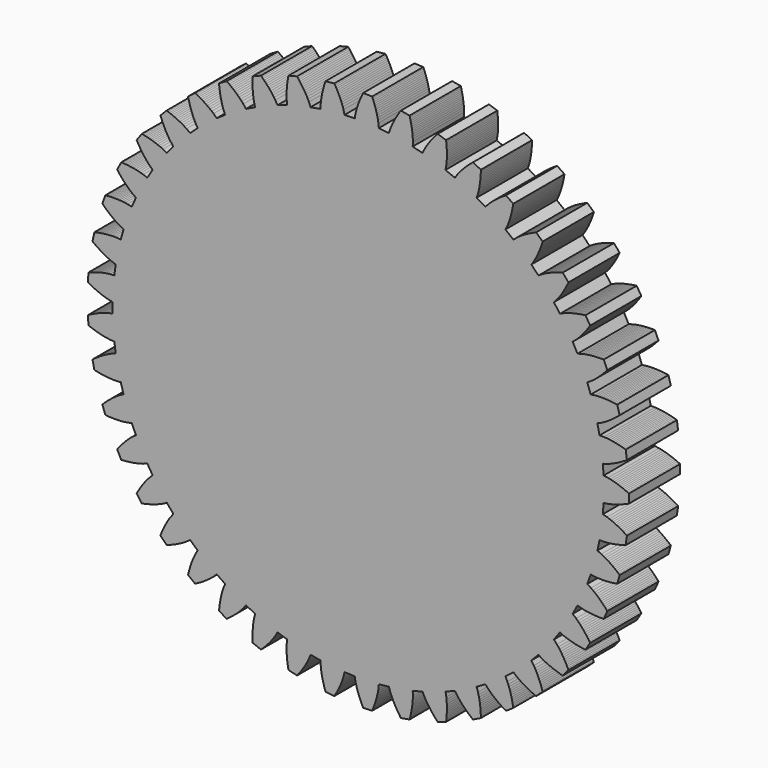
from build123d import *

# Parameters (mm, degrees)
F1_DEPTH = 5


with BuildPart() as f1:
    # F0 (on Front) → F1 (new body)
    with BuildSketch(Plane.XZ):
        Polygon((19.097055, -1.737715), (19.152914, -0.938899), (19.1721, -0.939839), (19.494402, -0.894952), (19.673585, -0.858515), (19.828612, -0.821504), (19.970844, -0.783447), (20.104697, -0.74426), (20.232446, -0.703953), (20.355446, -0.66256), (20.474583, -0.620121), (20.590474, -0.57668), (20.703572, -0.532277), (20.814218, -0.486949), (20.922679, -0.440731), (21.029168, -0.393658), (21.133859, -0.345758), (21.133859, 0.345758), (21.029168, 0.393658), (20.922679, 0.440731), (20.814218, 0.486949), (20.703572, 0.532277), (20.590474, 0.57668), (20.474583, 0.620121), (20.355446, 0.66256), (20.232446, 0.703953), (20.104697, 0.74426), (19.970844, 0.783447), (19.828612, 0.821504), (19.673585, 0.858515), (19.494402, 0.894952), (19.1721, 0.939839), (19.152914, 0.938899), (19.097055, 1.737715), (19.116185, 1.739455), (19.429104, 1.828761), (19.601472, 1.88978), (19.749839, 1.948006), (19.88539, 2.005488), (20.012488, 2.062922), (20.133384, 2.120616), (20.249426, 2.178725), (20.361496, 2.237331), (20.470214, 2.296479), (20.576031, 2.35619), (20.679292, 2.416476), (20.780266, 2.477338), (20.879167, 2.538774), (20.976173, 2.600778), (20.879933, 3.285564), (20.769594, 3.318428), (20.65759, 3.350223), (20.543752, 3.380895), (20.427874, 3.410383), (20.309698, 3.438614), (20.188888, 3.465504), (20.065005, 3.490949), (19.937441, 3.514821), (19.805326, 3.536957), (19.667321, 3.557133), (19.521177, 3.575025), (19.362508, 3.590101), (19.179998, 3.601245), (18.854585, 3.600839), (18.835717, 3.597238), (18.669228, 4.380507), (18.687929, 4.384892), (18.985374, 4.516878), (19.147572, 4.601293), (19.286392, 4.679601), (19.412624, 4.755389), (19.530491, 4.829952), (19.642181, 4.90391), (19.749006, 4.977604), (19.85183, 5.051237), (19.951258, 5.124939), (20.047735, 5.198797), (20.141601, 5.272867), (20.233121, 5.347189), (20.32251, 5.421792), (20.409943, 5.496693), (20.219335, 6.161421), (20.105497, 6.178608), (19.990157, 6.194506), (19.873159, 6.209037), (19.754305, 6.222111), (19.633349, 6.23362), (19.509973, 6.243435), (19.383754, 6.251391), (19.254109, 6.257277), (19.120199, 6.26081), (18.980729, 6.261584), (18.833517, 6.258963), (18.674294, 6.251809), (18.492009, 6.237444), (18.16982, 6.191754), (18.151636, 6.185562), (17.877758, 6.938037), (17.895667, 6.944982), (18.171848, 7.11708), (18.32072, 7.223247), (18.44729, 7.320113), (18.561746, 7.412731), (18.668089, 7.502973), (18.768399, 7.591755), (18.863929, 7.679599), (18.955504, 7.766826), (19.043707, 7.853648), (19.128966, 7.940214), (19.21161, 8.026627), (19.291896, 8.112964), (19.370032, 8.199281), (19.44619, 8.285621), (19.164924, 8.917352), (19.049802, 8.918529), (18.933372, 8.91822), (18.81549, 8.916326), (18.695973, 8.912732), (18.574593, 8.907295), (18.451052, 8.899844), (18.324954, 8.890156), (18.195752, 8.877942), (18.062653, 8.862804), (17.924433, 8.84416), (17.779018, 8.821076), (17.622341, 8.791832), (17.443829, 8.752238), (17.131134, 8.662152), (17.113989, 8.65349), (16.738051, 9.360525), (16.75482, 9.369895), (17.004361, 9.578756), (17.137009, 9.704608), (17.248866, 9.818147), (17.349318, 9.925793), (17.442067, 10.029957), (17.529045, 10.131836), (17.611419, 10.232119), (17.689964, 10.331242), (17.765225, 10.429495), (17.837607, 10.527084), (17.90742, 10.624158), (17.974909, 10.720828), (18.040272, 10.817179), (18.103672, 10.913278), (17.737224, 11.499718), (17.623058, 11.484861), (17.507805, 11.468351), (17.391333, 11.45007), (17.27348, 11.429877), (17.154037, 11.4076), (17.032735, 11.383028), (16.909213, 11.355885), (16.782968, 11.325808), (16.653271, 11.292294), (16.518991, 11.254594), (16.378204, 11.211498), (16.227121, 11.160733), (16.055857, 11.09668), (15.758743, 10.963952), (15.74297, 10.952988), (15.272291, 11.600822), (15.287593, 11.612435), (15.505638, 11.853992), (15.619479, 11.997081), (15.714446, 12.125082), (15.798939, 12.245661), (15.876288, 12.361719), (15.948241, 12.474711), (16.015857, 12.585483), (16.079842, 12.694572), (16.140696, 12.802344), (16.198792, 12.909057), (16.254416, 13.014902), (16.307794, 13.120024), (16.359111, 13.224534), (16.40852, 13.328522), (15.964022, 13.858254), (15.853034, 13.827653), (15.741201, 13.795264), (15.628407, 13.76095), (15.514511, 13.724552), (15.399331, 13.685869), (15.282629, 13.644654), (15.164086, 13.600584), (15.043256, 13.55323), (14.919486, 13.501992), (14.791759, 13.445971), (14.65834, 13.3837), (14.515793, 13.312403), (14.35511, 13.225138), (14.079359, 13.052351), (14.065266, 13.039299), (13.509007, 13.615323), (13.522543, 13.628952), (13.704848, 13.898504), (13.797667, 14.056044), (13.873896, 14.196016), (13.940785, 14.327181), (14.001229, 14.452874), (14.056756, 14.574781), (14.108298, 14.693885), (14.156478, 14.810818), (14.201741, 14.92601), (14.24442, 15.039769), (14.284771, 15.152326), (14.323, 15.263853), (14.359273, 15.374489), (14.393728, 15.48434), (13.879831, 15.947055), (13.774183, 15.901306), (13.667945, 15.853667), (13.561025, 15.80399), (13.453303, 15.752094), (13.344627, 15.697758), (13.234798, 15.640702), (13.123542, 15.580563), (13.010478, 15.516854), (12.895043, 15.448889), (12.776356, 15.375637), (12.652902, 15.295404), (12.521665, 15.204961), (12.37469, 15.096184), (12.12567, 14.886701), (12.113531, 14.871815), (11.482518, 15.364816), (11.494026, 15.380196), (11.637042, 15.672497), (11.707033, 15.841422), (11.763039, 15.990641), (11.811023, 16.129838), (11.853386, 16.262721), (11.891406, 16.391169), (11.92587, 16.516287), (11.957307, 16.638787), (11.986098, 16.759158), (12.012529, 16.87775), (12.036823, 16.994827), (12.059158, 17.110589), (12.079681, 17.225196), (12.098513, 17.338774), (11.525219, 17.725465), (11.426966, 17.665458), (11.328393, 17.603497), (11.229426, 17.539423), (11.129975, 17.47304), (11.029919, 17.404108), (10.929099, 17.332322), (10.827296, 17.257285), (10.724198, 17.17846), (10.619346, 17.095091), (10.512009, 17.006034), (10.400923, 16.9094), (10.28355, 16.801573), (10.153145, 16.673399), (9.935702, 16.431299), (9.925753, 16.414867), (9.232268, 16.815251), (9.241524, 16.832083), (9.342468, 17.141443), (9.388267, 17.318465), (9.422961, 17.474026), (9.451106, 17.618547), (9.474563, 17.756032), (9.494337, 17.888521), (9.511052, 18.017218), (9.525135, 18.142902), (9.536893, 18.266107), (9.546562, 18.387224), (9.554326, 18.506543), (9.560332, 18.624287), (9.564705, 18.740635), (9.567546, 18.855728), (8.946015, 19.158869), (8.85707, 19.085771), (8.768079, 19.010695), (8.678993, 18.933471), (8.589748, 18.853894), (8.50026, 18.771707), (8.410412, 18.686588), (8.320042, 18.598113), (8.228919, 18.505707), (8.136689, 18.408556), (8.042791, 18.305428), (7.946235, 18.194274), (7.84501, 18.071161), (7.733713, 17.926085), (7.552081, 17.656079), (7.544515, 17.638423), (6.802057, 17.938396), (6.808879, 17.956352), (6.865786, 18.276751), (6.886504, 18.458423), (6.89921, 18.617299), (6.906967, 18.76433), (6.911062, 18.903742), (6.912204, 19.037694), (6.910846, 19.167465), (6.9073, 19.293885), (6.901797, 19.417528), (6.894515, 19.538812), (6.885598, 19.65805), (6.875159, 19.775484), (6.863296, 19.891308), (6.850092, 20.005677), (6.192421, 20.219367), (6.114514, 20.134602), (6.036838, 20.047871), (5.959366, 19.959), (5.882065, 19.867777), (5.804886, 19.773936), (5.727758, 19.677141), (5.650582, 19.57695), (5.573205, 19.472761), (5.495394, 19.36372), (5.416763, 19.248527), (5.336616, 19.125017), (5.253511, 18.989015), (5.163487, 18.829861), (5.0212, 18.537204), (5.016165, 18.518667), (4.239184, 18.71239), (4.243441, 18.731121), (4.255204, 19.056322), (4.250435, 19.23911), (4.240907, 19.398208), (4.228126, 19.544888), (4.212778, 19.683512), (4.195267, 19.81632), (4.175861, 19.944639), (4.154755, 20.069335), (4.132098, 20.191009), (4.108008, 20.310099), (4.082582, 20.426935), (4.055901, 20.541774), (4.028035, 20.65482), (3.999042, 20.766238), (3.318031, 20.886319), (3.25268, 20.791536), (3.18783, 20.694839), (3.123481, 20.596051), (3.059628, 20.494957), (2.99626, 20.391288), (2.933354, 20.284701), (2.870873, 20.174743), (2.808749, 20.0608), (2.746871, 19.941991), (2.685037, 19.816976), (2.622859, 19.683513), (2.55949, 19.537269), (2.492493, 19.367135), (2.39232, 19.057524), (2.389914, 19.038466), (1.593534, 19.122169), (1.595143, 19.14131), (1.561532, 19.464983), (1.531371, 19.645329), (1.499793, 19.801552), (1.466722, 19.945026), (1.432231, 20.080165), (1.396407, 20.209243), (1.359331, 20.333613), (1.321076, 20.454158), (1.281706, 20.571495), (1.241277, 20.686073), (1.199838, 20.798234), (1.157434, 20.908242), (1.114105, 21.016309), (1.069889, 21.122608), (0.378793, 21.146742), (0.327269, 21.043786), (0.276508, 20.939004), (0.226534, 20.832222), (0.177372, 20.723226), (0.129048, 20.611747), (0.081589, 20.497442), (0.035019, 20.379859), (-0.010642, 20.258379), (-0.055383, 20.132114), (-0.099217, 19.99971), (-0.142215, 19.858893), (-0.184614, 19.705252), (-0.227282, 19.52745), (-0.283389, 19.20691), (-0.28312, 19.187703), (-1.083399, 19.159757), (-1.08447, 19.178936), (-1.162801, 19.494781), (-1.217767, 19.669173), (-1.27078, 19.819482), (-1.323497, 19.956957), (-1.37646, 20.085981), (-1.429899, 20.208817), (-1.483923, 20.326816), (-1.538582, 20.440864), (-1.593899, 20.55158), (-1.649882, 20.659416), (-1.706527, 20.764718), (-1.763828, 20.867754), (-1.821775, 20.96874), (-1.880356, 21.06785), (-2.568084, 20.995567), (-2.604778, 20.886443), (-2.640462, 20.775616), (-2.675089, 20.662918), (-2.708603, 20.54814), (-2.740942, 20.431021), (-2.772031, 20.311224), (-2.801784, 20.188303), (-2.830093, 20.061651), (-2.856826, 19.930388), (-2.881806, 19.793172), (-2.904788, 19.647741), (-2.925392, 19.489695), (-2.942899, 19.307685), (-2.95385, 18.982456), (-2.95091, 18.963474), (-3.739512, 18.824422), (-3.743241, 18.843265), (-3.864767, 19.145135), (-3.943469, 19.310181), (-4.016885, 19.451648), (-4.088221, 19.580448), (-4.158626, 19.700846), (-4.228641, 19.815049), (-4.298561, 19.924381), (-4.368561, 20.029712), (-4.438748, 20.131652), (-4.509194, 20.230648), (-4.579943, 20.327041), (-4.651026, 20.4211), (-4.722464, 20.513038), (-4.794267, 20.603031), (-5.465243, 20.435738), (-5.486393, 20.322569), (-5.506306, 20.207855), (-5.524911, 20.091434), (-5.542125, 19.973109), (-5.557849, 19.852629), (-5.571963, 19.72967), (-5.584319, 19.603806), (-5.594727, 19.474446), (-5.602931, 19.34074), (-5.608571, 19.201383), (-5.611089, 19.054169), (-5.609497, 18.894793), (-5.601502, 18.712118), (-5.567084, 18.38853), (-5.561531, 18.370142), (-6.323105, 18.122691), (-6.329421, 18.140832), (-6.491776, 18.42285), (-6.592683, 18.575337), (-6.685072, 18.70521), (-6.77364, 18.822829), (-6.860115, 18.932256), (-6.945343, 19.035604), (-7.029799, 19.134141), (-7.113777, 19.228705), (-7.197468, 19.319884), (-7.281006, 19.408112), (-7.364482, 19.493721), (-7.447964, 19.576972), (-7.531501, 19.658073), (-7.615131, 19.737197), (-8.256294, 19.47815), (-8.261488, 19.363139), (-8.265242, 19.24677), (-8.267463, 19.128893), (-8.268042, 19.009324), (-8.266845, 18.887828), (-8.26371, 18.764102), (-8.258429, 18.637742), (-8.250731, 18.508193), (-8.240248, 18.374647), (-8.226438, 18.23586), (-8.208444, 18.089728), (-8.184686, 17.932126), (-8.151346, 17.752341), (-8.072228, 17.436692), (-8.064169, 17.419256), (-8.783894, 17.068222), (-8.792673, 17.085308), (-8.992697, 17.341986), (-9.113844, 17.478945), (-9.223409, 17.594697), (-9.327484, 17.698844), (-9.428347, 17.795172), (-9.527129, 17.885652), (-9.624476, 17.971476), (-9.720797, 18.053432), (-9.816365, 18.132077), (-9.911368, 18.20782), (-10.005946, 18.280978), (-10.100202, 18.3518), (-10.194214, 18.420486), (-10.288041, 18.487201), (-10.886912, 18.141443), (-10.876049, 18.026828), (-10.863571, 17.911069), (-10.849366, 17.79403), (-10.833298, 17.675544), (-10.815204, 17.555397), (-10.794879, 17.433311), (-10.772064, 17.308916), (-10.746412, 17.181699), (-10.717444, 17.050911), (-10.684454, 16.915397), (-10.646297, 16.773192), (-10.600836, 16.62043), (-10.542799, 16.447035), (-10.420521, 16.145469), (-10.410114, 16.129324), (-11.07398, 15.68154), (-11.085052, 15.697238), (-11.318852, 15.92358), (-11.457881, 16.042346), (-11.582489, 16.141722), (-11.700046, 16.230372), (-11.813334, 16.311724), (-11.923746, 16.387577), (-12.032091, 16.459017), (-12.138881, 16.526771), (-12.244463, 16.591349), (-12.349083, 16.653134), (-12.452923, 16.712417), (-12.556118, 16.769432), (-12.658774, 16.824365), (-12.760973, 16.877373), (-13.305896, 16.451633), (-13.279187, 16.339645), (-13.25072, 16.226749), (-13.220364, 16.112826), (-13.187963, 15.997729), (-13.153323, 15.88127), (-13.116206, 15.763201), (-13.0763, 15.643192), (-13.033192, 15.520783), (-12.986304, 15.3953), (-12.934775, 15.265696), (-12.877198, 15.130185), (-12.810919, 14.985236), (-12.729316, 14.821606), (-12.566258, 14.539993), (-12.553705, 14.525453), (-13.148791, 13.989635), (-13.161939, 14.003638), (-13.424965, 14.19524), (-13.57917, 14.2935), (-13.716396, 14.374567), (-13.845146, 14.445994), (-13.968654, 14.510788), (-14.088548, 14.570535), (-14.205781, 14.626202), (-14.320961, 14.678434), (-14.434503, 14.72769), (-14.546704, 14.774313), (-14.657784, 14.818568), (-14.76791, 14.860665), (-14.877212, 14.900777), (-14.985794, 14.939045), (-15.466162, 14.44161), (-15.424127, 14.33443), (-15.380225, 14.226594), (-15.33431, 14.118005), (-15.286205, 14.008537), (-15.235695, 13.898032), (-15.182506, 13.786278), (-15.126287, 13.672991), (-15.066563, 13.557772), (-15.002667, 13.440036), (-14.933602, 13.318865), (-14.857726, 13.192686), (-14.771919, 13.058372), (-14.668337, 12.907691), (-14.467673, 12.651512), (-14.453219, 12.63886), (-14.967942, 12.025437), (-14.982911, 12.037475), (-15.270043, 12.190605), (-15.436422, 12.266448), (-15.583596, 12.327628), (-15.721033, 12.380441), (-15.852356, 12.427415), (-15.979399, 12.469895), (-16.103239, 12.508705), (-16.224567, 12.544398), (-16.343859, 12.577373), (-16.461457, 12.607926), (-16.577615, 12.636291), (-16.692527, 12.662653), (-16.806348, 12.687162), (-16.9192, 12.709947), (-17.325663, 12.150498), (-17.269121, 12.050211), (-17.210638, 11.949535), (-17.150057, 11.848392), (-17.087186, 11.746685), (-17.021788, 11.644284), (-16.953564, 11.541021), (-16.882125, 11.43666), (-16.806946, 11.330875), (-16.727287, 11.223177), (-16.64203, 11.112797), (-16.549332, 10.998406), (-16.445667, 10.877341), (-16.322122, 10.742542), (-16.087758, 10.516784), (-16.071684, 10.506267), (-16.496026, 9.827178), (-16.512524, 9.837015), (-16.818174, 9.948694), (-16.993489, 10.000644), (-17.147745, 10.040746), (-17.291195, 10.073916), (-17.427778, 10.102158), (-17.559496, 10.126543), (-17.687532, 10.14774), (-17.812647, 10.1662), (-17.935367, 10.182251), (-18.056073, 10.196141), (-18.175048, 10.208064), (-18.292511, 10.218176), (-18.408635, 10.226607), (-18.523559, 10.233463), (-18.848206, 9.62289), (-18.778257, 9.531448), (-18.706333, 9.439891), (-18.632265, 9.348164), (-18.55585, 9.256197), (-18.476837, 9.163895), (-18.394906, 9.071131), (-18.309638, 8.977728), (-18.220469, 8.883435), (-18.126596, 8.787872), (-18.026807, 8.690432), (-17.919091, 8.590055), (-17.799586, 8.484596), (-17.658483, 8.368303), (-17.39498, 8.177358), (-17.377598, 8.169181), (-17.7033, 7.437644), (-17.721007, 7.445089), (-18.039224, 7.513143), (-18.220063, 7.540188), (-18.378399, 7.558431), (-18.52507, 7.571315), (-18.664254, 7.580273), (-18.798084, 7.586089), (-18.927824, 7.58926), (-19.05429, 7.590128), (-19.17805, 7.588944), (-19.299514, 7.5859), (-19.418991, 7.581149), (-19.536718, 7.574815), (-19.652885, 7.567002), (-19.767645, 7.557797), (-20.004158, 6.907984), (-19.922163, 6.827167), (-19.838196, 6.746511), (-19.752083, 6.665985), (-19.663613, 6.585547), (-19.572523, 6.50514), (-19.478478, 6.424681), (-19.381041, 6.344055), (-19.279617, 6.263089), (-19.173358, 6.181521), (-19.060979, 6.098917), (-18.940341, 6.014508), (-18.807322, 5.926707), (-18.651407, 5.831184), (-18.363894, 5.67877), (-18.345544, 5.673091), (-18.566266, 4.903344), (-18.584837, 4.908253), (-18.909429, 4.931357), (-19.092272, 4.932971), (-19.251605, 4.929001), (-19.398642, 4.921346), (-19.537718, 4.910846), (-19.671055, 4.89798), (-19.799974, 4.883065), (-19.92533, 4.866323), (-20.047721, 4.847927), (-20.167579, 4.828008), (-20.285232, 4.806675), (-20.400932, 4.784018), (-20.514881, 4.760113), (-20.627243, 4.735027), (-20.771018, 4.058622), (-20.678573, 3.990002), (-20.584198, 3.921817), (-20.487716, 3.85406), (-20.388912, 3.786718), (-20.287518, 3.71977), (-20.183191, 3.653183), (-20.075482, 3.586902), (-19.963776, 3.52084), (-19.847199, 3.454853), (-19.724417, 3.388693), (-19.593206, 3.321896), (-19.449262, 3.253462), (-19.28157, 3.180567), (-18.975644, 3.069651), (-18.956682, 3.066581), (-19.068127, 2.273607), (-19.0872, 2.275883), (-19.411849, 2.253588), (-19.593137, 2.229739), (-19.750368, 2.203633), (-19.894908, 2.17559), (-20.031169, 2.145836), (-20.161419, 2.114538), (-20.287006, 2.081826), (-20.408813, 2.047801), (-20.527452, 2.01255), (-20.643372, 1.976144), (-20.75691, 1.938644), (-20.868331, 1.900106), (-20.977845, 1.860575), (-21.085622, 1.820095), (-21.13386, 1.130263), (-21.032765, 1.075177), (-20.929819, 1.02079), (-20.824846, 0.96712), (-20.717631, 0.914184), (-20.607907, 0.861999), (-20.495328, 0.810579), (-20.379442, 0.759934), (-20.259629, 0.710061), (-20.135003, 0.660941), (-20.004209, 0.612513), (-19.864978, 0.564626), (-19.712911, 0.516891), (-19.536706, 0.468044), (-19.21832, 0.400784), (-19.199115, 0.400384), (-19.199115, -0.400384), (-19.21832, -0.400784), (-19.536706, -0.468044), (-19.712911, -0.516891), (-19.864978, -0.564626), (-20.004209, -0.612513), (-20.135003, -0.660941), (-20.259629, -0.710061), (-20.379442, -0.759934), (-20.495328, -0.810579), (-20.607907, -0.861999), (-20.717631, -0.914184), (-20.824846, -0.96712), (-20.929819, -1.02079), (-21.032765, -1.075177), (-21.13386, -1.130263), (-21.085622, -1.820095), (-20.977845, -1.860575), (-20.868331, -1.900106), (-20.75691, -1.938644), (-20.643372, -1.976144), (-20.527452, -2.01255), (-20.408813, -2.047801), (-20.287006, -2.081826), (-20.161419, -2.114538), (-20.031169, -2.145836), (-19.894908, -2.17559), (-19.750368, -2.203633), (-19.593137, -2.229739), (-19.411849, -2.253588), (-19.0872, -2.275883), (-19.068127, -2.273607), (-18.956682, -3.066581), (-18.975644, -3.069651), (-19.28157, -3.180567), (-19.449262, -3.253462), (-19.593206, -3.321896), (-19.724417, -3.388693), (-19.847199, -3.454853), (-19.963776, -3.52084), (-20.075482, -3.586902), (-20.183191, -3.653183), (-20.287518, -3.71977), (-20.388912, -3.786718), (-20.487716, -3.85406), (-20.584198, -3.921817), (-20.678573, -3.990002), (-20.771018, -4.058622), (-20.627243, -4.735027), (-20.514881, -4.760113), (-20.400932, -4.784018), (-20.285232, -4.806675), (-20.167579, -4.828008), (-20.047721, -4.847927), (-19.92533, -4.866323), (-19.799974, -4.883065), (-19.671055, -4.89798), (-19.537718, -4.910846), (-19.398642, -4.921346), (-19.251605, -4.929001), (-19.092272, -4.932971), (-18.909429, -4.931357), (-18.584837, -4.908253), (-18.566266, -4.903344), (-18.345544, -5.673091), (-18.363894, -5.67877), (-18.651407, -5.831184), (-18.807322, -5.926707), (-18.940341, -6.014508), (-19.060979, -6.098917), (-19.173358, -6.181521), (-19.279617, -6.263089), (-19.381041, -6.344055), (-19.478478, -6.424681), (-19.572523, -6.50514), (-19.663613, -6.585547), (-19.752083, -6.665985), (-19.838196, -6.746511), (-19.922163, -6.827167), (-20.004158, -6.907984), (-19.767645, -7.557797), (-19.652885, -7.567002), (-19.536718, -7.574815), (-19.418991, -7.581149), (-19.299514, -7.5859), (-19.17805, -7.588944), (-19.05429, -7.590128), (-18.927824, -7.58926), (-18.798084, -7.586089), (-18.664254, -7.580273), (-18.52507, -7.571315), (-18.378399, -7.558431), (-18.220063, -7.540188), (-18.039224, -7.513143), (-17.721007, -7.445089), (-17.7033, -7.437644), (-17.377598, -8.169181), (-17.39498, -8.177358), (-17.658483, -8.368303), (-17.799586, -8.484596), (-17.919091, -8.590055), (-18.026807, -8.690432), (-18.126596, -8.787872), (-18.220469, -8.883435), (-18.309638, -8.977728), (-18.394906, -9.071131), (-18.476837, -9.163895), (-18.55585, -9.256197), (-18.632265, -9.348164), (-18.706333, -9.439891), (-18.778257, -9.531448), (-18.848206, -9.62289), (-18.523559, -10.233463), (-18.408635, -10.226607), (-18.292511, -10.218176), (-18.175048, -10.208064), (-18.056073, -10.196141), (-17.935367, -10.182251), (-17.812647, -10.1662), (-17.687532, -10.14774), (-17.559496, -10.126543), (-17.427778, -10.102158), (-17.291195, -10.073916), (-17.147745, -10.040746), (-16.993489, -10.000644), (-16.818174, -9.948694), (-16.512524, -9.837015), (-16.496026, -9.827178), (-16.071684, -10.506267), (-16.087758, -10.516784), (-16.322122, -10.742542), (-16.445667, -10.877341), (-16.549332, -10.998406), (-16.64203, -11.112797), (-16.727287, -11.223177), (-16.806946, -11.330875), (-16.882125, -11.43666), (-16.953564, -11.541021), (-17.021788, -11.644284), (-17.087186, -11.746685), (-17.150057, -11.848392), (-17.210638, -11.949535), (-17.269121, -12.050211), (-17.325663, -12.150498), (-16.9192, -12.709947), (-16.806348, -12.687162), (-16.692527, -12.662653), (-16.577615, -12.636291), (-16.461457, -12.607926), (-16.343859, -12.577373), (-16.224567, -12.544398), (-16.103239, -12.508705), (-15.979399, -12.469895), (-15.852356, -12.427415), (-15.721033, -12.380441), (-15.583596, -12.327628), (-15.436422, -12.266448), (-15.270043, -12.190605), (-14.982911, -12.037475), (-14.967942, -12.025437), (-14.453219, -12.63886), (-14.467673, -12.651512), (-14.668337, -12.907691), (-14.771919, -13.058372), (-14.857726, -13.192686), (-14.933602, -13.318865), (-15.002667, -13.440036), (-15.066563, -13.557772), (-15.126287, -13.672991), (-15.182506, -13.786278), (-15.235695, -13.898032), (-15.286205, -14.008537), (-15.33431, -14.118005), (-15.380225, -14.226594), (-15.424127, -14.33443), (-15.466162, -14.44161), (-14.985794, -14.939045), (-14.877212, -14.900777), (-14.76791, -14.860665), (-14.657784, -14.818568), (-14.546704, -14.774313), (-14.434503, -14.72769), (-14.320961, -14.678434), (-14.205781, -14.626202), (-14.088548, -14.570535), (-13.968654, -14.510788), (-13.845146, -14.445994), (-13.716396, -14.374567), (-13.57917, -14.2935), (-13.424965, -14.19524), (-13.161939, -14.003638), (-13.148791, -13.989635), (-12.553705, -14.525453), (-12.566258, -14.539993), (-12.729316, -14.821606), (-12.810919, -14.985236), (-12.877198, -15.130185), (-12.934775, -15.265696), (-12.986304, -15.3953), (-13.033192, -15.520783), (-13.0763, -15.643192), (-13.116206, -15.763201), (-13.153323, -15.88127), (-13.187963, -15.997729), (-13.220364, -16.112826), (-13.25072, -16.226749), (-13.279187, -16.339645), (-13.305896, -16.451633), (-12.760973, -16.877373), (-12.658774, -16.824365), (-12.556118, -16.769432), (-12.452923, -16.712417), (-12.349083, -16.653134), (-12.244463, -16.591349), (-12.138881, -16.526771), (-12.032091, -16.459017), (-11.923746, -16.387577), (-11.813334, -16.311724), (-11.700046, -16.230372), (-11.582489, -16.141722), (-11.457881, -16.042346), (-11.318852, -15.92358), (-11.085052, -15.697238), (-11.07398, -15.68154), (-10.410114, -16.129324), (-10.420521, -16.145469), (-10.542799, -16.447035), (-10.600836, -16.62043), (-10.646297, -16.773192), (-10.684454, -16.915397), (-10.717444, -17.050911), (-10.746412, -17.181699), (-10.772064, -17.308916), (-10.794879, -17.433311), (-10.815204, -17.555397), (-10.833298, -17.675544), (-10.849366, -17.79403), (-10.863571, -17.911069), (-10.876049, -18.026828), (-10.886912, -18.141443), (-10.288041, -18.487201), (-10.194214, -18.420486), (-10.100202, -18.3518), (-10.005946, -18.280978), (-9.911368, -18.20782), (-9.816365, -18.132077), (-9.720797, -18.053432), (-9.624476, -17.971476), (-9.527129, -17.885652), (-9.428347, -17.795172), (-9.327484, -17.698844), (-9.223409, -17.594697), (-9.113844, -17.478945), (-8.992697, -17.341986), (-8.792673, -17.085308), (-8.783894, -17.068222), (-8.064169, -17.419256), (-8.072228, -17.436692), (-8.151346, -17.752341), (-8.184686, -17.932126), (-8.208444, -18.089728), (-8.226438, -18.23586), (-8.240248, -18.374647), (-8.250731, -18.508193), (-8.258429, -18.637742), (-8.26371, -18.764102), (-8.266845, -18.887828), (-8.268042, -19.009324), (-8.267463, -19.128893), (-8.265242, -19.24677), (-8.261488, -19.363139), (-8.256294, -19.47815), (-7.615131, -19.737197), (-7.531501, -19.658073), (-7.447964, -19.576972), (-7.364482, -19.493721), (-7.281006, -19.408112), (-7.197468, -19.319884), (-7.113777, -19.228705), (-7.029799, -19.134141), (-6.945343, -19.035604), (-6.860115, -18.932256), (-6.77364, -18.822829), (-6.685072, -18.70521), (-6.592683, -18.575337), (-6.491776, -18.42285), (-6.329421, -18.140832), (-6.323105, -18.122691), (-5.561531, -18.370142), (-5.567084, -18.38853), (-5.601502, -18.712118), (-5.609497, -18.894793), (-5.611089, -19.054169), (-5.608571, -19.201383), (-5.602931, -19.34074), (-5.594727, -19.474446), (-5.584319, -19.603806), (-5.571963, -19.72967), (-5.557849, -19.852629), (-5.542125, -19.973109), (-5.524911, -20.091434), (-5.506306, -20.207855), (-5.486393, -20.322569), (-5.465243, -20.435738), (-4.794267, -20.603031), (-4.722464, -20.513038), (-4.651026, -20.4211), (-4.579943, -20.327041), (-4.509194, -20.230648), (-4.438748, -20.131652), (-4.368561, -20.029712), (-4.298561, -19.924381), (-4.228641, -19.815049), (-4.158626, -19.700846), (-4.088221, -19.580448), (-4.016885, -19.451648), (-3.943469, -19.310181), (-3.864767, -19.145135), (-3.743241, -18.843265), (-3.739512, -18.824422), (-2.95091, -18.963474), (-2.95385, -18.982456), (-2.942899, -19.307685), (-2.925392, -19.489695), (-2.904788, -19.647741), (-2.881806, -19.793172), (-2.856826, -19.930388), (-2.830093, -20.061651), (-2.801784, -20.188303), (-2.772031, -20.311224), (-2.740942, -20.431021), (-2.708603, -20.54814), (-2.675089, -20.662918), (-2.640462, -20.775616), (-2.604778, -20.886443), (-2.568084, -20.995567), (-1.880356, -21.06785), (-1.821775, -20.96874), (-1.763828, -20.867754), (-1.706527, -20.764718), (-1.649882, -20.659416), (-1.593899, -20.55158), (-1.538582, -20.440864), (-1.483923, -20.326816), (-1.429899, -20.208817), (-1.37646, -20.085981), (-1.323497, -19.956957), (-1.27078, -19.819482), (-1.217767, -19.669173), (-1.162801, -19.494781), (-1.08447, -19.178936), (-1.083399, -19.159757), (-0.28312, -19.187703), (-0.283389, -19.20691), (-0.227282, -19.52745), (-0.184614, -19.705252), (-0.142215, -19.858893), (-0.099217, -19.99971), (-0.055383, -20.132114), (-0.010642, -20.258379), (0.035019, -20.379859), (0.081589, -20.497442), (0.129048, -20.611747), (0.177372, -20.723226), (0.226534, -20.832222), (0.276508, -20.939004), (0.327269, -21.043786), (0.378793, -21.146742), (1.069889, -21.122608), (1.114105, -21.016309), (1.157434, -20.908242), (1.199838, -20.798234), (1.241277, -20.686073), (1.281706, -20.571495), (1.321076, -20.454158), (1.359331, -20.333613), (1.396407, -20.209243), (1.432231, -20.080165), (1.466722, -19.945026), (1.499793, -19.801552), (1.531371, -19.645329), (1.561532, -19.464983), (1.595143, -19.14131), (1.593534, -19.122169), (2.389914, -19.038466), (2.39232, -19.057524), (2.492493, -19.367135), (2.55949, -19.537269), (2.622859, -19.683513), (2.685037, -19.816976), (2.746871, -19.941991), (2.808749, -20.0608), (2.870873, -20.174743), (2.933354, -20.284701), (2.99626, -20.391288), (3.059628, -20.494957), (3.123481, -20.596051), (3.18783, -20.694839), (3.25268, -20.791536), (3.318031, -20.886319), (3.999042, -20.766238), (4.028035, -20.65482), (4.055901, -20.541774), (4.082582, -20.426935), (4.108008, -20.310099), (4.132098, -20.191009), (4.154755, -20.069335), (4.175861, -19.944639), (4.195267, -19.81632), (4.212778, -19.683512), (4.228126, -19.544888), (4.240907, -19.398208), (4.250435, -19.23911), (4.255204, -19.056322), (4.243441, -18.731121), (4.239184, -18.71239), (5.016165, -18.518667), (5.0212, -18.537204), (5.163487, -18.829861), (5.253511, -18.989015), (5.336616, -19.125017), (5.416763, -19.248527), (5.495394, -19.36372), (5.573205, -19.472761), (5.650582, -19.57695), (5.727758, -19.677141), (5.804886, -19.773936), (5.882065, -19.867777), (5.959366, -19.959), (6.036838, -20.047871), (6.114514, -20.134602), (6.192421, -20.219367), (6.850092, -20.005677), (6.863296, -19.891308), (6.875159, -19.775484), (6.885598, -19.65805), (6.894515, -19.538812), (6.901797, -19.417528), (6.9073, -19.293885), (6.910846, -19.167465), (6.912204, -19.037694), (6.911062, -18.903742), (6.906967, -18.76433), (6.89921, -18.617299), (6.886504, -18.458423), (6.865786, -18.276751), (6.808879, -17.956352), (6.802057, -17.938396), (7.544515, -17.638423), (7.552081, -17.656079), (7.733713, -17.926085), (7.84501, -18.071161), (7.946235, -18.194274), (8.042791, -18.305428), (8.136689, -18.408556), (8.228919, -18.505707), (8.320042, -18.598113), (8.410412, -18.686588), (8.50026, -18.771707), (8.589748, -18.853894), (8.678993, -18.933471), (8.768079, -19.010695), (8.85707, -19.085771), (8.946015, -19.158869), (9.567546, -18.855728), (9.564705, -18.740635), (9.560332, -18.624287), (9.554326, -18.506543), (9.546562, -18.387224), (9.536893, -18.266107), (9.525135, -18.142902), (9.511052, -18.017218), (9.494337, -17.888521), (9.474563, -17.756032), (9.451106, -17.618547), (9.422961, -17.474026), (9.388267, -17.318465), (9.342468, -17.141443), (9.241524, -16.832083), (9.232268, -16.815251), (9.925753, -16.414867), (9.935702, -16.431299), (10.153145, -16.673399), (10.28355, -16.801573), (10.400923, -16.9094), (10.512009, -17.006034), (10.619346, -17.095091), (10.724198, -17.17846), (10.827296, -17.257285), (10.929099, -17.332322), (11.029919, -17.404108), (11.129975, -17.47304), (11.229426, -17.539423), (11.328393, -17.603497), (11.426966, -17.665458), (11.525219, -17.725465), (12.098513, -17.338774), (12.079681, -17.225196), (12.059158, -17.110589), (12.036823, -16.994827), (12.012529, -16.87775), (11.986098, -16.759158), (11.957307, -16.638787), (11.92587, -16.516287), (11.891406, -16.391169), (11.853386, -16.262721), (11.811023, -16.129838), (11.763039, -15.990641), (11.707033, -15.841422), (11.637042, -15.672497), (11.494026, -15.380196), (11.482518, -15.364816), (12.113531, -14.871815), (12.12567, -14.886701), (12.37469, -15.096184), (12.521665, -15.204961), (12.652902, -15.295404), (12.776356, -15.375637), (12.895043, -15.448889), (13.010478, -15.516854), (13.123542, -15.580563), (13.234798, -15.640702), (13.344627, -15.697758), (13.453303, -15.752094), (13.561025, -15.80399), (13.667945, -15.853667), (13.774183, -15.901306), (13.879831, -15.947055), (14.393728, -15.48434), (14.359273, -15.374489), (14.323, -15.263853), (14.284771, -15.152326), (14.24442, -15.039769), (14.201741, -14.92601), (14.156478, -14.810818), (14.108298, -14.693885), (14.056756, -14.574781), (14.001229, -14.452874), (13.940785, -14.327181), (13.873896, -14.196016), (13.797667, -14.056044), (13.704848, -13.898504), (13.522543, -13.628952), (13.509007, -13.615323), (14.065266, -13.039299), (14.079359, -13.052351), (14.35511, -13.225138), (14.515793, -13.312403), (14.65834, -13.3837), (14.791759, -13.445971), (14.919486, -13.501992), (15.043256, -13.55323), (15.164086, -13.600584), (15.282629, -13.644654), (15.399331, -13.685869), (15.514511, -13.724552), (15.628407, -13.76095), (15.741201, -13.795264), (15.853034, -13.827653), (15.964022, -13.858254), (16.40852, -13.328522), (16.359111, -13.224534), (16.307794, -13.120024), (16.254416, -13.014902), (16.198792, -12.909057), (16.140696, -12.802344), (16.079842, -12.694572), (16.015857, -12.585483), (15.948241, -12.474711), (15.876288, -12.361719), (15.798939, -12.245661), (15.714446, -12.125082), (15.619479, -11.997081), (15.505638, -11.853992), (15.287593, -11.612435), (15.272291, -11.600822), (15.74297, -10.952988), (15.758743, -10.963952), (16.055857, -11.09668), (16.227121, -11.160733), (16.378204, -11.211498), (16.518991, -11.254594), (16.653271, -11.292294), (16.782968, -11.325808), (16.909213, -11.355885), (17.032735, -11.383028), (17.154037, -11.4076), (17.27348, -11.429877), (17.391333, -11.45007), (17.507805, -11.468351), (17.623058, -11.484861), (17.737224, -11.499718), (18.103672, -10.913278), (18.040272, -10.817179), (17.974909, -10.720828), (17.90742, -10.624158), (17.837607, -10.527084), (17.765225, -10.429495), (17.689964, -10.331242), (17.611419, -10.232119), (17.529045, -10.131836), (17.442067, -10.029957), (17.349318, -9.925793), (17.248866, -9.818147), (17.137009, -9.704608), (17.004361, -9.578756), (16.75482, -9.369895), (16.738051, -9.360525), (17.113989, -8.65349), (17.131134, -8.662152), (17.443829, -8.752238), (17.622341, -8.791832), (17.779018, -8.821076), (17.924433, -8.84416), (18.062653, -8.862804), (18.195752, -8.877942), (18.324954, -8.890156), (18.451052, -8.899844), (18.574593, -8.907295), (18.695973, -8.912732), (18.81549, -8.916326), (18.933372, -8.91822), (19.049802, -8.918529), (19.164924, -8.917352), (19.44619, -8.285621), (19.370032, -8.199281), (19.291896, -8.112964), (19.21161, -8.026627), (19.128966, -7.940214), (19.043707, -7.853648), (18.955504, -7.766826), (18.863929, -7.679599), (18.768399, -7.591755), (18.668089, -7.502973), (18.561746, -7.412731), (18.44729, -7.320113), (18.32072, -7.223247), (18.171848, -7.11708), (17.895667, -6.944982), (17.877758, -6.938037), (18.151636, -6.185562), (18.16982, -6.191754), (18.492009, -6.237444), (18.674294, -6.251809), (18.833517, -6.258963), (18.980729, -6.261584), (19.120199, -6.26081), (19.254109, -6.257277), (19.383754, -6.251391), (19.509973, -6.243435), (19.633349, -6.23362), (19.754305, -6.222111), (19.873159, -6.209037), (19.990157, -6.194506), (20.105497, -6.178608), (20.219335, -6.161421), (20.409943, -5.496693), (20.32251, -5.421792), (20.233121, -5.347189), (20.141601, -5.272867), (20.047735, -5.198797), (19.951258, -5.124939), (19.85183, -5.051237), (19.749006, -4.977604), (19.642181, -4.90391), (19.530491, -4.829952), (19.412624, -4.755389), (19.286392, -4.679601), (19.147572, -4.601293), (18.985374, -4.516878), (18.687929, -4.384892), (18.669228, -4.380507), (18.835717, -3.597238), (18.854585, -3.600839), (19.179998, -3.601245), (19.362508, -3.590101), (19.521177, -3.575025), (19.667321, -3.557133), (19.805326, -3.536957), (19.937441, -3.514821), (20.065005, -3.490949), (20.188888, -3.465504), (20.309698, -3.438614), (20.427874, -3.410383), (20.543752, -3.380895), (20.65759, -3.350223), (20.769594, -3.318428), (20.879933, -3.285564), (20.976173, -2.600778), (20.879167, -2.538774), (20.780266, -2.477338), (20.679292, -2.416476), (20.576031, -2.35619), (20.470214, -2.296479), (20.361496, -2.237331), (20.249426, -2.178725), (20.133384, -2.120616), (20.012488, -2.062922), (19.88539, -2.005488), (19.749839, -1.948006), (19.601472, -1.88978), (19.429104, -1.828761), (19.116185, -1.739455), align=None)
        with BuildLine():
            ThreePointArc((-2.513698, 0), (-0.013698, 2.5), (2.486302, 0))
            ThreePointArc((2.486302, 0), (-0.013698, -2.5), (-2.513698, 0))
        make_face(mode=Mode.SUBTRACT)
        with BuildLine():
            ThreePointArc((-2.513698, 0), (-0.013698, -2.5), (2.486302, 0))
            ThreePointArc((2.486302, 0), (-0.013698, 2.5), (-2.513698, 0))
        make_face()
    extrude(amount=F1_DEPTH)


solid = f1.part
